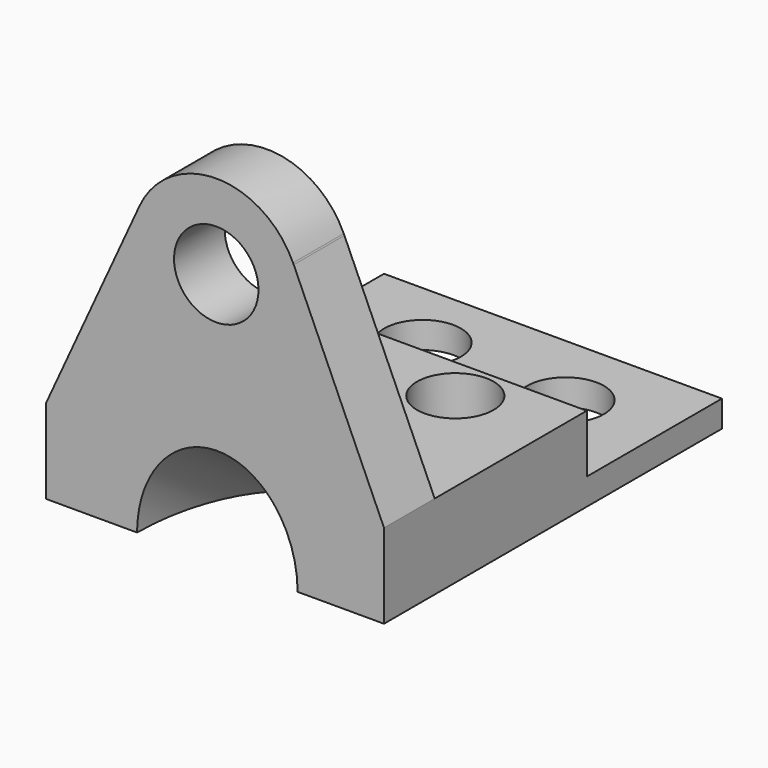
from build123d import *

# Parameters (mm, degrees)
F0_W     = 80
F0_H     = 6.2817167491
F1_DEPTH = 100
F0_H_2   = 13.7182832509
F2_DEPTH = 60
F3_DEPTH = 15
F4_R     = 9.0769472969
F5_DEPTH = 25
F7_R     = 19
F8_DEPTH = 50


with BuildPart() as f1:
    # F0 (on Front) → F1 (new body)
    with BuildSketch(Plane.XZ):
        with Locations((6.518688947, 3.1408583745)):
            Rectangle(F0_W, F0_H)
    extrude(amount=-F1_DEPTH)

    # F0 (on Front) → F2 (join)
    with BuildSketch(Plane.XZ):
        with Locations((6.518688947, 13.1408583745)):
            Rectangle(F0_W, F0_H_2)
    extrude(amount=-F2_DEPTH)

    # F0 (on Front) → F3 (join)
    with BuildSketch(Plane.XZ):
        with BuildLine():
            Line((-11.373255065, 68.2343241419), (-33.481311053, 20))
            Line((-33.481311053, 20), (46.518688947, 20))
            Line((46.518688947, 20), (25.1514762131, 67.870652208))
            ThreePointArc((25.1514762131, 67.870652208), (26.3894512228, 63.9710021957), (26.8079475313, 59.9010251462))
            ThreePointArc((26.8079475313, 59.9010251462), (2.5432114273, 40.3610142465), (-11.373255065, 68.2343241419))
        make_face()
        with BuildLine():
            Line((1.2801877818, 68.2343241419), (-11.373255065, 68.2343241419))
            ThreePointArc((-11.373255065, 68.2343241419), (2.5432114273, 40.3610142465), (26.8079475313, 59.9010251462))
            ThreePointArc((26.8079475313, 59.9010251462), (26.3894512228, 63.9710021957), (25.1514762131, 67.870652208))
            Line((25.1514762131, 67.870652208), (24.9891501277, 68.2343241419))
            Line((24.9891501277, 68.2343241419), (12.3357072809, 68.2343241419))
            ThreePointArc((12.3357072809, 68.2343241419), (15.6192356748, 64.6297883305), (16.8079475313, 59.9010251462))
            ThreePointArc((16.8079475313, 59.9010251462), (2.0791843471, 51.0897370028), (1.2801877818, 68.2343241419))
        make_face()
        with BuildLine():
            ThreePointArc((24.9891501277, 68.2343241419), (6.8079475313, 79.9010251462), (-11.373255065, 68.2343241419))
            Line((-11.373255065, 68.2343241419), (1.2801877818, 68.2343241419))
            ThreePointArc((1.2801877818, 68.2343241419), (6.8079475313, 69.9010251462), (12.3357072809, 68.2343241419))
            Line((12.3357072809, 68.2343241419), (24.9891501277, 68.2343241419))
        make_face()
    extrude(amount=-F3_DEPTH)

    # F4 (on Top) → F5 (cut)
    with BuildSketch(Plane.XY):
        with Locations((23.7978734076, 49.5029516816)):
            Circle(F4_R)
        with Locations((24.3011422828, 81.5029516816)):
            Circle(F4_R)
        with Locations((-10.6988577172, 82.9403176904)):
            Circle(F4_R)
        with Locations((-10.4935187846, 48.854265362)):
            Circle(F4_R)
    extrude(amount=F5_DEPTH, mode=Mode.SUBTRACT)

    # F7 (on line) → F8 (cut, symmetric)
    with BuildSketch(Plane(origin=(0, 0, 0), x_dir=(1, 0, 0), z_dir=(0, -0.8191520443, 0.5735764364))):
        with Locations((7.0702885278, 0)):
            Circle(F7_R)
    extrude(amount=F8_DEPTH, both=True, mode=Mode.SUBTRACT)


solid = f1.part
